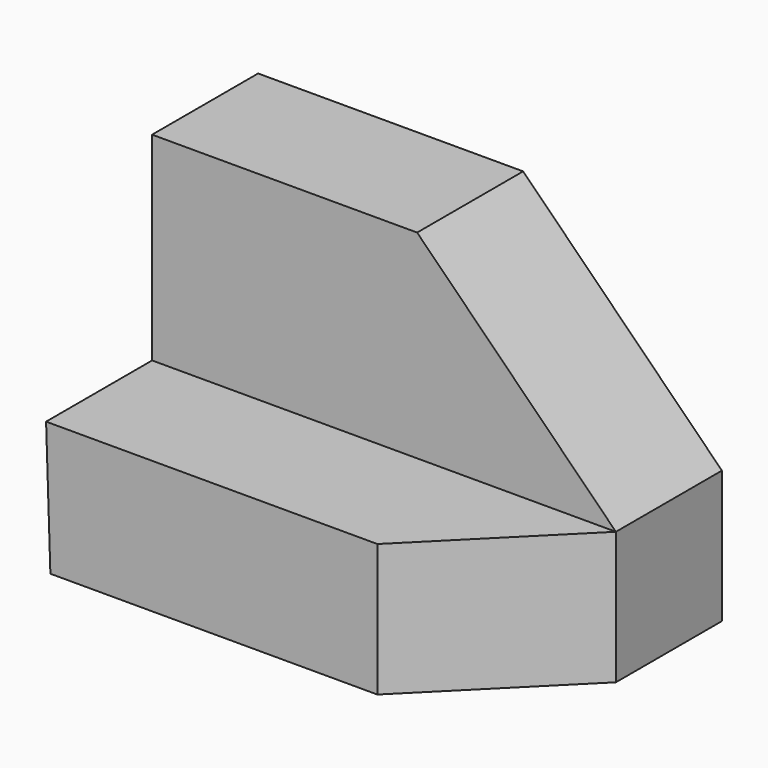
from build123d import *

# Parameters (mm, degrees)
F2_DEPTH = 12.7
F0_W     = 44.45
F0_H     = 31.75
F3_DEPTH = 12.7
F5_DEPTH = 25.4
F7_DEPTH = 25.4


with BuildPart() as f2:
    # F1 (on face) → F2 (new body)
    with BuildSketch(Plane.XZ):
        Polygon((0, 12.7), (-44.45, 12.7), (-44.037469, 0), (0, 0), align=None)
    extrude(amount=F2_DEPTH)

    # F0 (on Front) → F3 (join)
    with BuildSketch(Plane.XZ):
        with Locations((-22.225, 15.875)):
            Rectangle(F0_W, F0_H)
    extrude(amount=-F3_DEPTH)

    # F4 (on face) → F5 (cut)
    with BuildSketch(Plane.XZ):
        Polygon((0, 31.75), (-19.05, 31.75), (0, 12.7), align=None)
    extrude(amount=-F5_DEPTH, mode=Mode.SUBTRACT)

    # F6 (on face) → F7 (cut)
    with BuildSketch(Plane.XY.offset(12.7)):
        Polygon((0, 0), (-12.7, -12.7), (0, -12.7), align=None)
    extrude(amount=-F7_DEPTH, mode=Mode.SUBTRACT)


solid = f2.part
